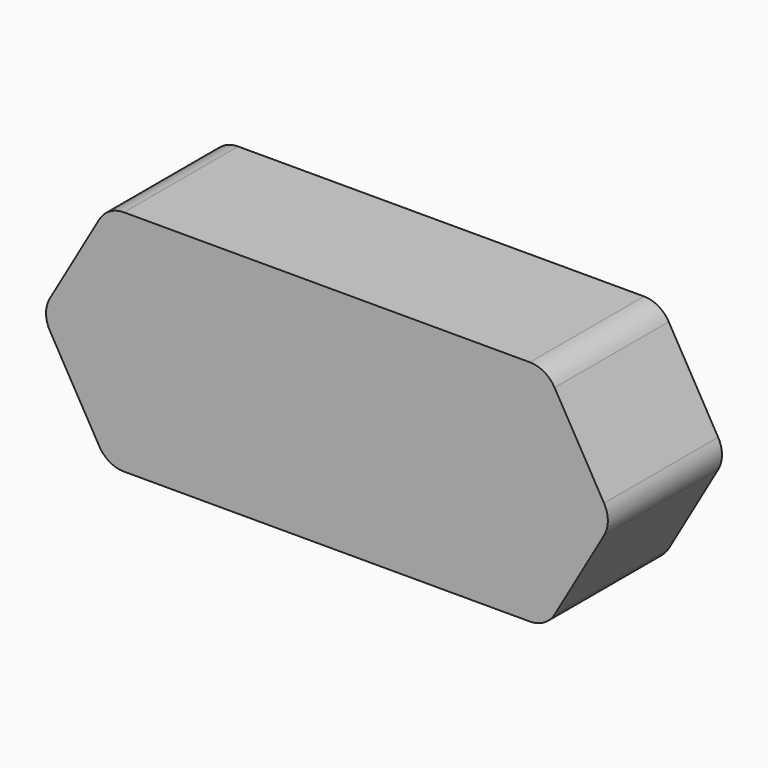
from build123d import *

# Parameters (mm, degrees)
F1_DEPTH = 25
F2_R     = 5


with BuildPart() as f1:
    # F0 (on Front) → F1 (new body)
    with BuildSketch(Plane.XZ):
        Polygon((-38.452995, 20), (-50, 0), (-38.452995, -20), (0, -20), (38.452995, -20), (50, 0), (38.452995, 20), (0, 20), align=None)
    extrude(amount=F1_DEPTH)

    # F2
    f2_edges = [f1.edges().sort_by_distance(p)[0] for p in [
        (-38.452995, -12.5, 20),
        (-50, -12.5, 0),
        (-38.452995, -12.5, -20),
        (38.452995, -12.5, 20),
        (50, -12.5, 0),
        (38.452995, -12.5, -20),
    ]]
    fillet(f2_edges, radius=F2_R)


solid = f1.part
